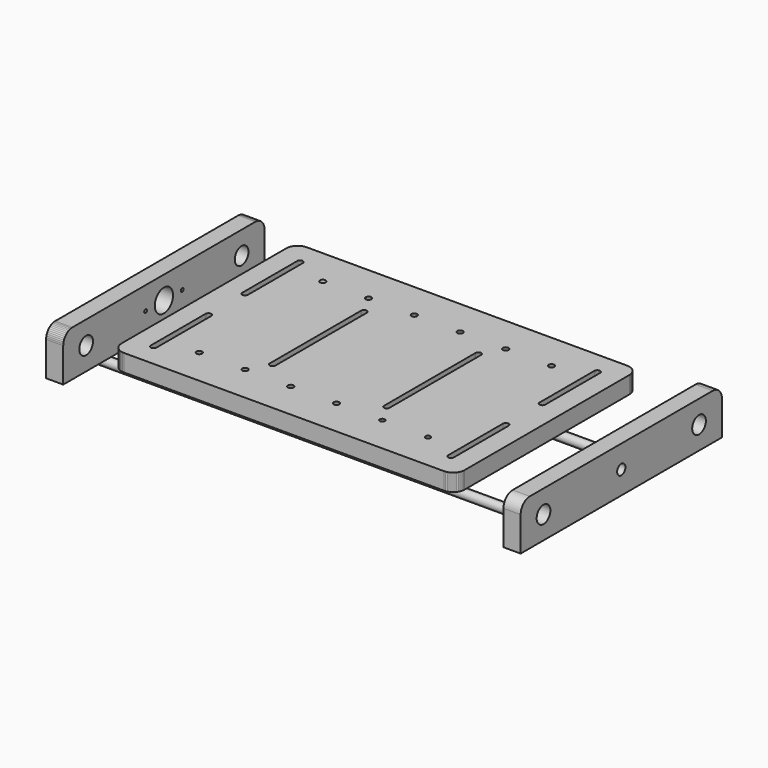
from build123d import *

# Parameters (mm, degrees)
F0_R      = 2.5
F1_DEPTH  = 15
F2_R      = 4
F3_DEPTH  = 200
F6_R      = 7.5
F6_R_2    = 4.5
F7_DEPTH  = 15
F9_R      = 7.5
F9_R_2    = 9.967917
F10_DEPTH = 15


with BuildPart() as f1:
    # F0 (on Top) → F1 (new body)
    with BuildSketch(Plane.XY):
        Polygon((150, -90), (150, 90), (149.914449, 91.305261), (149.659258, 92.58819), (149.238795, 93.826834), (148.660254, 95), (147.933534, 96.087614), (147.071068, 97.071067), (146.087614, 97.933533), (145, 98.660254), (143.826834, 99.238795), (142.588191, 99.659258), (141.305262, 99.914448), (140, 100), (-140, 100), (-141.305262, 99.914448), (-142.58819, 99.659258), (-143.826834, 99.238795), (-145, 98.660254), (-146.087614, 97.933533), (-147.071068, 97.071067), (-147.933533, 96.087614), (-148.660254, 95), (-149.238795, 93.826834), (-149.659258, 92.58819), (-149.914448, 91.305261), (-150, 90), (-150, -90), (-149.914448, -91.305262), (-149.659258, -92.588191), (-149.238795, -93.826835), (-148.660254, -95), (-147.933533, -96.087615), (-147.071068, -97.071068), (-146.087614, -97.933534), (-145, -98.660255), (-143.826834, -99.238796), (-142.58819, -99.659259), (-141.305262, -99.914449), (-140, -100), (140, -100), (141.305262, -99.914449), (142.588191, -99.659259), (143.826834, -99.238796), (145, -98.660255), (146.087614, -97.933534), (147.071068, -97.071068), (147.933534, -96.087615), (148.660254, -95), (149.238795, -93.826835), (149.659258, -92.588191), (149.914449, -91.305262), align=None)
        Polygon((-100.647047, -69.914815), (-101.25, -69.665064), (-101.767767, -69.267767), (-102.165063, -68.75), (-102.414814, -68.147048), (-102.5, -67.5), (-102.414814, -66.852953), (-102.165063, -66.25), (-101.767767, -65.732234), (-101.25, -65.334937), (-100.647047, -65.085186), (-100, -65), (-99.352952, -65.085186), (-98.75, -65.334937), (-98.232233, -65.732234), (-97.834936, -66.25), (-97.585185, -66.852953), (-97.5, -67.5), (-97.585185, -68.147048), (-97.834936, -68.75), (-98.232233, -69.267767), (-98.75, -69.665064), (-99.352952, -69.914815), (-100, -70), align=None, mode=Mode.SUBTRACT)
        Polygon((-61.767767, -65.732234), (-61.25, -65.334937), (-60.647047, -65.085186), (-60, -65), (-59.352952, -65.085186), (-58.75, -65.334937), (-58.232233, -65.732234), (-57.834936, -66.25), (-57.585185, -66.852953), (-57.5, -67.5), (-57.585185, -68.147048), (-57.834936, -68.75), (-58.232233, -69.267767), (-58.75, -69.665064), (-59.352952, -69.914815), (-60, -70), (-60.647047, -69.914815), (-61.25, -69.665064), (-61.767767, -69.267767), (-62.165063, -68.75), (-62.414814, -68.147048), (-62.5, -67.5), (-62.414814, -66.852953), (-62.165063, -66.25), align=None, mode=Mode.SUBTRACT)
        Polygon((-18.75, -65.334937), (-18.232233, -65.732234), (-17.834936, -66.25), (-17.585185, -66.852953), (-17.5, -67.5), (-17.585185, -68.147048), (-17.834936, -68.75), (-18.232233, -69.267767), (-18.75, -69.665064), (-19.352952, -69.914815), (-20, -70), (-20.647047, -69.914815), (-21.25, -69.665064), (-21.767767, -69.267767), (-22.165063, -68.75), (-22.414814, -68.147048), (-22.5, -67.5), (-22.414814, -66.852953), (-22.165063, -66.25), (-21.767767, -65.732234), (-21.25, -65.334937), (-20.647047, -65.085186), (-20, -65), (-19.352952, -65.085186), align=None, mode=Mode.SUBTRACT)
        Polygon((-132.5, -20), (-132.414814, -19.352953), (-132.165063, -18.75), (-131.767767, -18.232234), (-131.25, -17.834937), (-130.647047, -17.585186), (-130, -17.5), (-129.352952, -17.585186), (-128.75, -17.834937), (-128.232233, -18.232234), (-127.834936, -18.75), (-127.585185, -19.352953), (-127.5, -20), (-127.5, -80), (-127.585185, -80.647048), (-127.834936, -81.25), (-128.232233, -81.767767), (-128.75, -82.165064), (-129.352952, -82.414815), (-130, -82.5), (-130.647047, -82.414815), (-131.25, -82.165064), (-131.767767, -81.767767), (-132.165063, -81.25), (-132.414814, -80.647048), (-132.5, -80), align=None, mode=Mode.SUBTRACT)
        Polygon((17.585186, -66.852953), (17.834937, -66.25), (18.232233, -65.732234), (18.75, -65.334937), (19.352953, -65.085186), (20, -65), (20.647048, -65.085186), (21.25, -65.334937), (21.767767, -65.732234), (22.165064, -66.25), (22.414815, -66.852953), (22.5, -67.5), (22.414815, -68.147048), (22.165064, -68.75), (21.767767, -69.267767), (21.25, -69.665064), (20.647048, -69.914815), (20, -70), (19.352953, -69.914815), (18.75, -69.665064), (18.232233, -69.267767), (17.834937, -68.75), (17.585186, -68.147048), (17.5, -67.5), align=None, mode=Mode.SUBTRACT)
        Polygon((59.430598, -65.374964), (60, -65.3), (60.569402, -65.374964), (61.1, -65.594745), (61.555635, -65.944366), (61.905256, -66.4), (62.125037, -66.930599), (62.2, -67.5), (62.125037, -68.069402), (61.905256, -68.6), (61.555635, -69.055635), (61.1, -69.405256), (60.569402, -69.625037), (60, -69.7), (59.430598, -69.625037), (58.9, -69.405256), (58.444365, -69.055635), (58.094744, -68.6), (57.874963, -68.069402), (57.8, -67.5), (57.874963, -66.930599), (58.094744, -66.4), (58.444365, -65.944366), (58.9, -65.594745), align=None, mode=Mode.SUBTRACT)
        Polygon((101.1, -69.405256), (100.569402, -69.625037), (100, -69.7), (99.430598, -69.625037), (98.9, -69.405256), (98.444365, -69.055635), (98.094744, -68.6), (97.874963, -68.069402), (97.8, -67.5), (97.874963, -66.930599), (98.094744, -66.4), (98.444365, -65.944366), (98.9, -65.594745), (99.430598, -65.374964), (100, -65.3), (100.569402, -65.374964), (101.1, -65.594745), (101.555635, -65.944366), (101.905256, -66.4), (102.125037, -66.930599), (102.2, -67.5), (102.125037, -68.069402), (101.905256, -68.6), (101.555635, -69.055635), align=None, mode=Mode.SUBTRACT)
        Polygon((132.5, -80), (132.414815, -80.647048), (132.165064, -81.25), (131.767767, -81.767767), (131.25, -82.165064), (130.647048, -82.414815), (130, -82.5), (129.352953, -82.414815), (128.75, -82.165064), (128.232233, -81.767767), (127.834937, -81.25), (127.585186, -80.647048), (127.5, -80), (127.5, -20), (127.585186, -19.352953), (127.834937, -18.75), (128.232233, -18.232234), (128.75, -17.834937), (129.352953, -17.585186), (130, -17.5), (130.647048, -17.585186), (131.25, -17.834937), (131.767767, -18.232234), (132.165064, -18.75), (132.414815, -19.352953), (132.5, -20), align=None, mode=Mode.SUBTRACT)
        Polygon((-52.5, 50), (-52.414814, 50.647047), (-52.165063, 51.25), (-51.767767, 51.767766), (-51.25, 52.165063), (-50.647047, 52.414814), (-50, 52.5), (-49.352952, 52.414814), (-48.75, 52.165063), (-48.232233, 51.767766), (-47.834936, 51.25), (-47.585185, 50.647047), (-47.5, 50), (-47.5, -50), (-47.585185, -50.647048), (-47.834936, -51.25), (-48.232233, -51.767767), (-48.75, -52.165064), (-49.352952, -52.414815), (-50, -52.5), (-50.647047, -52.414815), (-51.25, -52.165064), (-51.767767, -51.767767), (-52.165063, -51.25), (-52.414814, -50.647048), (-52.5, -50), align=None, mode=Mode.SUBTRACT)
        Polygon((-132.414814, 80.647047), (-132.165063, 81.25), (-131.767767, 81.767766), (-131.25, 82.165063), (-130.647047, 82.414814), (-130, 82.5), (-129.352952, 82.414814), (-128.75, 82.165063), (-128.232233, 81.767766), (-127.834936, 81.25), (-127.585185, 80.647047), (-127.5, 80), (-127.5, 20), (-127.585185, 19.352952), (-127.834936, 18.75), (-128.232233, 18.232233), (-128.75, 17.834936), (-129.352952, 17.585185), (-130, 17.5), (-130.647047, 17.585185), (-131.25, 17.834936), (-131.767767, 18.232233), (-132.165063, 18.75), (-132.414814, 19.352952), (-132.5, 20), (-132.414814, 20.647047), align=None, mode=Mode.SUBTRACT)
        with Locations((-99.999999, 67.5)):
            Circle(F0_R, mode=Mode.SUBTRACT)
        Polygon((-58.232233, 69.267766), (-57.834936, 68.75), (-57.585185, 68.147047), (-57.5, 67.5), (-57.585185, 66.852952), (-57.834936, 66.25), (-58.232233, 65.732233), (-58.75, 65.334936), (-59.352952, 65.085185), (-60, 65), (-60.647047, 65.085185), (-61.25, 65.334936), (-61.767767, 65.732233), (-62.165063, 66.25), (-62.414814, 66.852952), (-62.5, 67.5), (-62.414814, 68.147047), (-62.165063, 68.75), (-61.767767, 69.267766), (-61.25, 69.665063), (-60.647047, 69.914814), (-60, 70), (-59.352952, 69.914814), (-58.75, 69.665063), align=None, mode=Mode.SUBTRACT)
        Polygon((-19.352952, 65.085185), (-20, 65), (-20.647047, 65.085185), (-21.25, 65.334936), (-21.767767, 65.732233), (-22.165063, 66.25), (-22.414814, 66.852952), (-22.5, 67.5), (-22.414814, 68.147047), (-22.165063, 68.75), (-21.767767, 69.267766), (-21.25, 69.665063), (-20.647047, 69.914814), (-20, 70), (-19.352952, 69.914814), (-18.75, 69.665063), (-18.232233, 69.267766), (-17.834936, 68.75), (-17.585185, 68.147047), (-17.5, 67.5), (-17.585185, 66.852952), (-17.834936, 66.25), (-18.232233, 65.732233), (-18.75, 65.334936), align=None, mode=Mode.SUBTRACT)
        Polygon((52.414815, 49.352952), (52.414815, -50), (52.5, -50), (52.414815, -50.647048), (52.165064, -51.25), (51.767767, -51.767767), (51.25, -52.165064), (50.647048, -52.414815), (50, -52.5), (49.352953, -52.414815), (48.75, -52.165064), (48.232233, -51.767767), (47.834937, -51.25), (47.585186, -50.647048), (47.5, -50), (47.585186, -49.352953), (47.585186, 49.352952), (47.5, 50), (47.585186, 50.647047), (47.834937, 51.25), (48.232233, 51.767766), (48.75, 52.165063), (49.352953, 52.414814), (50, 52.5), (50.647048, 52.414814), (51.25, 52.165063), (51.767767, 51.767766), (52.165064, 51.25), (52.414815, 50.647047), (52.5, 50), align=None, mode=Mode.SUBTRACT)
        Polygon((21.767767, 65.732233), (21.25, 65.334936), (20.647048, 65.085185), (20, 65), (19.352953, 65.085185), (18.75, 65.334936), (18.232233, 65.732233), (17.834937, 66.25), (17.585186, 66.852952), (17.5, 67.5), (17.585186, 68.147047), (17.834937, 68.75), (18.232233, 69.267766), (18.75, 69.665063), (19.352953, 69.914814), (20, 70), (20.647048, 69.914814), (21.25, 69.665063), (21.767767, 69.267766), (22.165064, 68.75), (22.414815, 68.147047), (22.5, 67.5), (22.414815, 66.852952), (22.165064, 66.25), align=None, mode=Mode.SUBTRACT)
        Polygon((60.647048, 65.085185), (60, 65), (59.352953, 65.085185), (58.75, 65.334936), (58.232233, 65.732233), (57.834937, 66.25), (57.585186, 66.852952), (57.5, 67.5), (57.585186, 68.147047), (57.834937, 68.75), (58.232233, 69.267766), (58.75, 69.665063), (59.352953, 69.914814), (60, 70), (60.647048, 69.914814), (61.25, 69.665063), (61.767767, 69.267766), (62.165064, 68.75), (62.414815, 68.147047), (62.5, 67.5), (62.414815, 66.852952), (62.165064, 66.25), (61.767767, 65.732233), (61.25, 65.334936), align=None, mode=Mode.SUBTRACT)
        Polygon((98.232233, 69.267766), (98.75, 69.665063), (99.352953, 69.914814), (100, 70), (100.647048, 69.914814), (101.25, 69.665063), (101.767767, 69.267766), (102.165064, 68.75), (102.414815, 68.147047), (102.5, 67.5), (102.414815, 66.852952), (102.165064, 66.25), (101.767767, 65.732233), (101.25, 65.334936), (100.647048, 65.085185), (100, 65), (99.352953, 65.085185), (98.75, 65.334936), (98.232233, 65.732233), (97.834937, 66.25), (97.585186, 66.852952), (97.5, 67.5), (97.585186, 68.147047), (97.834937, 68.75), align=None, mode=Mode.SUBTRACT)
        Polygon((127.5, 80), (127.585186, 80.647047), (127.834937, 81.25), (128.232233, 81.767766), (128.75, 82.165063), (129.352953, 82.414814), (130, 82.5), (130.647048, 82.414814), (131.25, 82.165063), (131.767767, 81.767766), (132.165064, 81.25), (132.414815, 80.647047), (132.5, 80), (132.5, 20), (132.414815, 19.352952), (132.165064, 18.75), (131.767767, 18.232233), (131.25, 17.834936), (130.647048, 17.585185), (130, 17.5), (129.352953, 17.585185), (128.75, 17.834936), (128.232233, 18.232233), (127.834937, 18.75), (127.585186, 19.352952), (127.5, 20), align=None, mode=Mode.SUBTRACT)
    extrude(amount=F1_DEPTH)


with BuildPart() as f3:
    # F2 (on Right) → F3 (new body, symmetric)
    with BuildSketch(Plane.YZ):
        with Locations((-53.966481, -27.12989)):
            Circle(F2_R)
    extrude(amount=F3_DEPTH, both=True)


with BuildPart() as f4_1:
    # F4: instance of F3
    add(f3.part.mirror(Plane.XZ))


with BuildPart() as f7:
    # F6 (on offset) → F7 (new body)
    with BuildSketch(Plane.YZ.offset(200)):
        with BuildLine():
            Line((-110, -20), (110, -20))
            Line((110, -20), (110, 10))
            ThreePointArc((110, 10), (107.071068, 17.071068), (100, 20))
            Line((100, 20), (-100, 20))
            ThreePointArc((-100, 20), (-107.071068, 17.071068), (-110, 10))
            Line((-110, 10), (-110, -20))
        make_face()
        with Locations((-85, 0)):
            Circle(F6_R, mode=Mode.SUBTRACT)
        with Locations((85, 0)):
            Circle(F6_R, mode=Mode.SUBTRACT)
        with Locations((-1e-06, 0)):
            Circle(F6_R_2, mode=Mode.SUBTRACT)
    extrude(amount=F7_DEPTH)


with BuildPart() as f10:
    # F9 (on offset) → F10 (new body)
    with BuildSketch(Plane.YZ.offset(-200)):
        Polygon((-110, -20), (110, -20), (110, 10), (109.914448, 11.305262), (109.659258, 12.58819), (109.238795, 13.826834), (108.660254, 15), (107.933533, 16.087614), (107.071067, 17.071067), (106.087614, 17.933533), (105, 18.660254), (103.826834, 19.238795), (102.58819, 19.659258), (101.305262, 19.914448), (100, 20), (-100, 20), (-101.305262, 19.914448), (-102.588191, 19.659258), (-103.826835, 19.238795), (-105, 18.660254), (-106.087615, 17.933533), (-107.071068, 17.071067), (-107.933534, 16.087614), (-108.660254, 15), (-109.238796, 13.826834), (-109.659259, 12.58819), (-109.914449, 11.305262), (-110, 10), align=None)
        with Locations((-85, -1e-06)):
            Circle(F9_R, mode=Mode.SUBTRACT)
        Polygon((20.581977, 1.382498), (20.919964, 1.184764), (21.195256, 0.906289), (21.389094, 0.566053), (21.488267, 0.187241), (21.486017, -0.204331), (21.382498, -0.581978), (21.184764, -0.919965), (20.906289, -1.195257), (20.566053, -1.389095), (20.187241, -1.488268), (19.795669, -1.486018), (19.418022, -1.382499), (19.080035, -1.184764), (18.804743, -0.90629), (18.610905, -0.566054), (18.511732, -0.187242), (18.513982, 0.20433), (18.617501, 0.581978), (18.815236, 0.919964), (19.09371, 1.195256), (19.433946, 1.389094), (19.812758, 1.488267), (20.20433, 1.486017), align=None, mode=Mode.SUBTRACT)
        with Locations((84.999999, 0)):
            Circle(F9_R, mode=Mode.SUBTRACT)
        Polygon((-21.448889, 0.388228), (-21.299038, 0.75), (-21.060661, 1.06066), (-20.75, 1.299038), (-20.388229, 1.448888), (-20, 1.5), (-19.611772, 1.448888), (-19.25, 1.299038), (-18.93934, 1.06066), (-18.700962, 0.75), (-18.551112, 0.388228), (-18.5, 0), (-18.551112, -0.388229), (-18.700962, -0.75), (-18.93934, -1.060661), (-19.25, -1.299038), (-19.611772, -1.448889), (-20, -1.5), (-20.388229, -1.448889), (-20.75, -1.299038), (-21.060661, -1.060661), (-21.299038, -0.75), (-21.448889, -0.388229), (-21.5, 0), align=None, mode=Mode.SUBTRACT)
        with Locations((0.020223, 0.048823)):
            Circle(F9_R_2, mode=Mode.SUBTRACT)
    extrude(amount=F10_DEPTH)


solid = Compound([f1.part, f3.part, f4_1.part, f7.part, f10.part])
